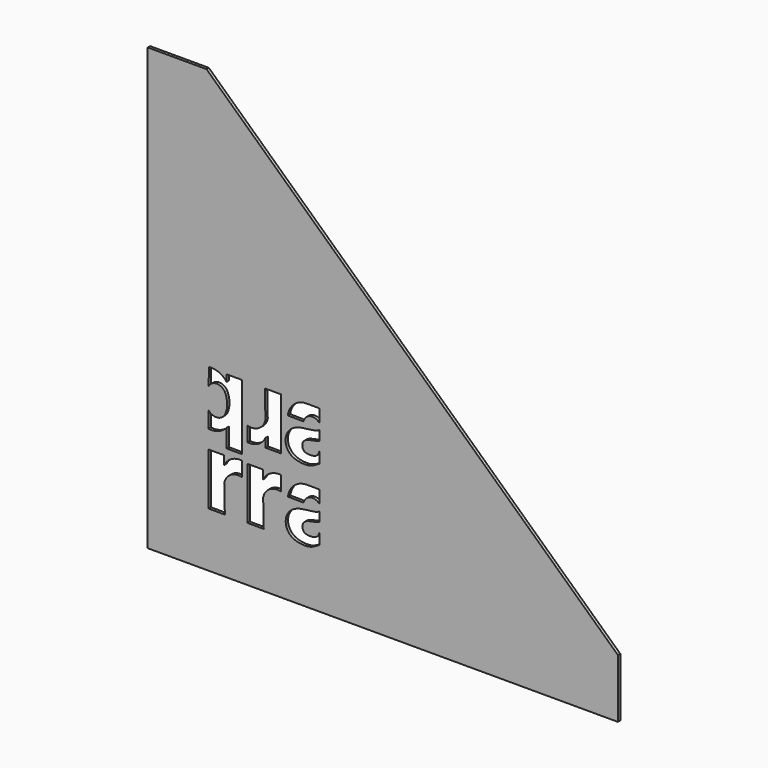
from build123d import *

# Parameters (mm, degrees)
F1_DEPTH = 2


with BuildPart() as f1:
    # F0 (on Front) → F1 (new body)
    with BuildSketch(Plane.XZ):
        Polygon((207.8597095609, 332.3038927495), (207.8597095609, 33.0038927495), (527.8597095609, 33.0038927495), (527.8597095609, 73.0038927495), (247.8597095609, 333.0038927495), (207.8597095609, 333.0038927495), align=None)
        with BuildLine():
            Line((260.350984643, 70.2171021446), (249.2783638935, 70.2171021446))
            Line((249.2783638935, 70.2171021446), (249.2783638935, 105.6249880537))
            Line((249.2783638935, 105.6249880537), (259.907719801, 105.6249880537))
            Line((259.907719801, 105.6249880537), (259.907719801, 99.7129225477))
            ThreePointArc((259.907719801, 99.7129225477), (264.969159541, 104.9981198242), (272.166569839, 106.3205295548))
            Line((272.166569839, 106.3205295548), (272.166569839, 96.3221633181))
            ThreePointArc((272.166569839, 96.3221633181), (264.4266251898, 95.3581367621), (259.9412812379, 88.9770882584))
            Line((259.9412812379, 88.9770882584), (260.350984643, 70.2171021446))
        make_face(mode=Mode.SUBTRACT)
        with BuildLine():
            ThreePointArc((286.3925668235, 99.7295484954), (291.4540065635, 105.0147457719), (298.6514168615, 106.3371555025))
            Line((298.6514168615, 106.3371555025), (298.6514168615, 96.3387892658))
            ThreePointArc((298.6514168615, 96.3387892658), (290.9114722123, 95.3747627098), (286.4261282604, 88.9937142061))
            Line((286.4261282604, 88.9937142061), (286.8358316655, 70.2337280923))
            Line((286.8358316655, 70.2337280923), (275.763210916, 70.2337280923))
            Line((275.763210916, 70.2337280923), (275.763210916, 105.6416140014))
            Line((275.763210916, 105.6416140014), (286.3925668235, 105.6416140014))
            Line((286.3925668235, 105.6416140014), (286.3925668235, 99.7295484954))
        make_face(mode=Mode.SUBTRACT)
        with BuildLine():
            Line((324.8531874271, 80.6576142285), (324.8531874271, 72.9894021723))
            add(Edge.make_bspline(
                [(324.8531874271, 93.2830700848), (323.3065188743, 92.0353198263), (319.5932504041, 91.5074140824), (305.76812214, 90.3356227603), (300.2660508817, 80.3600298922), (304.3588181672, 69.9638702682), (318.5536418728, 68.5542730887), (322.0696986329, 71.5322612124), (324.8531874271, 72.9894021723)],
                knots=[0, 0, 0, 0, 0.1282549597, 0.3235779421, 0.4933166916, 0.6588260023, 0.8480719548, 1, 1, 1, 1], degree=3))
            Line((324.8531874271, 93.2830700848), (324.8531874271, 86.6217890952))
            add(Edge.make_bspline(
                [(324.8531874271, 80.6576142285), (324.3853881763, 79.3716732666), (323.4463072091, 76.6838402752), (318.0274043762, 75.8320101397), (313.0517233961, 76.8842047893), (312.8862075691, 83.1667071186), (318.065998571, 85.3140545113), (321.9671157982, 85.6164060676), (324.8531874271, 86.6217890952)],
                knots=[0, 0, 0, 0, 0.1467139352, 0.3148344078, 0.4723324727, 0.6349882053, 0.7976765175, 1, 1, 1, 1], degree=3))
        make_face(mode=Mode.SUBTRACT)
        with BuildLine():
            Line((316.0905669231, 106.2228459891), (324.8531874271, 106.1858685351))
            Line((324.8531874271, 106.1858685351), (324.8531874271, 97.3470781765))
            ThreePointArc((324.8531874271, 97.3470781765), (318.6136208517, 99.4559091904), (313.9553243844, 94.7997698758))
            Line((313.9553243844, 94.7997698758), (303.3299023836, 94.9093083117))
            ThreePointArc((303.3299023836, 94.9093083117), (307.550022404, 103.002604489), (316.0905669231, 106.2228459891))
        make_face(mode=Mode.SUBTRACT)
        with BuildLine():
            Line((271.8778838503, 154.6828896542), (271.8778838503, 110.1980508108))
            Line((271.8778838503, 110.1980508108), (261.5694468009, 110.1980508108))
            Line((261.5694468009, 110.1980508108), (261.5694468009, 122.6266548772))
            ThreePointArc((261.5694468009, 122.6266548772), (256.0058228238, 118.7745070428), (249.2798035133, 118.0304513116))
            Line((249.2798035133, 118.0304513116), (249.2798035133, 129.026845171))
            ThreePointArc((249.2798035133, 129.026845171), (255.1291713772, 126.67333299), (260.419606148, 130.1034093638))
            ThreePointArc((260.419606148, 130.1034093638), (261.9283811203, 136.8586272736), (260.419606148, 143.6138451834))
            ThreePointArc((260.419606148, 143.6138451834), (254.8736584473, 146.8446188485), (249.3277107465, 143.6138451834))
            Line((249.3277107465, 143.6138451834), (249.5063905704, 155.1215500374))
            ThreePointArc((249.5063905704, 155.1215500374), (256.2156097253, 154.2198410632), (261.5694468009, 150.0770003338))
            Line((261.5694468009, 150.0770003338), (261.5694468009, 154.6828896542))
            Line((261.5694468009, 154.6828896542), (271.8778838503, 154.6828896542))
        make_face(mode=Mode.SUBTRACT)
        with BuildLine():
            Line((298.6336936343, 119.2762107392), (288.0043377268, 119.2762107392))
            Line((288.0043377268, 119.2762107392), (288.0043377268, 125.1882762452))
            ThreePointArc((288.0043377268, 125.1882762452), (282.9428979868, 119.9030789686), (275.7454876888, 118.5806692381))
            Line((275.7454876888, 118.5806692381), (275.7454876888, 128.5790354748))
            ThreePointArc((275.7454876888, 128.5790354748), (283.485432338, 129.5430620307), (287.9707762899, 135.9241105345))
            Line((287.9707762899, 135.9241105345), (287.5610728848, 154.6840966483))
            Line((287.5610728848, 154.6840966483), (298.6336936343, 154.6840966483))
            Line((298.6336936343, 154.6840966483), (298.6336936343, 119.2762107392))
        make_face(mode=Mode.SUBTRACT)
        with BuildLine():
            add(Edge.make_bspline(
                [(324.7558644524, 141.9059485932), (323.2091958996, 140.6581983347), (319.4959274294, 140.1302925908), (305.6707991653, 138.9585012686), (300.168727907, 128.9829084005), (304.2614951926, 118.5867487766), (318.4563188981, 117.1771515971), (321.9723756583, 120.1551397208), (324.7558644524, 121.6122806807)],
                knots=[0, 0, 0, 0, 0.1282549597, 0.3235779421, 0.4933166916, 0.6588260023, 0.8480719548, 1, 1, 1, 1], degree=3))
            Line((324.7558644524, 141.9059485932), (324.7558644524, 135.2446676035))
            add(Edge.make_bspline(
                [(324.7558644524, 129.2804927369), (324.2880652016, 127.9945517749), (323.3489842345, 125.3067187836), (317.9300814016, 124.4548886481), (312.9544004215, 125.5070832977), (312.7888845944, 131.7895856269), (317.9686755963, 133.9369330196), (321.8697928236, 134.239284576), (324.7558644524, 135.2446676035)],
                knots=[0, 0, 0, 0, 0.1467139352, 0.3148344078, 0.4723324727, 0.6349882053, 0.7976765175, 1, 1, 1, 1], degree=3))
            Line((324.7558644524, 129.2804927369), (324.7558644524, 121.6122806807))
        make_face(mode=Mode.SUBTRACT)
        with BuildLine():
            Line((324.7558644524, 154.8087470435), (324.7558644524, 145.9699566849))
            ThreePointArc((324.7558644524, 145.9699566849), (318.516297877, 148.0787876987), (313.8580014098, 143.4226483841))
            Line((313.8580014098, 143.4226483841), (303.2325794089, 143.5321868201))
            ThreePointArc((303.2325794089, 143.5321868201), (307.4526994293, 151.6254829974), (315.9932439484, 154.8457244975))
            Line((315.9932439484, 154.8457244975), (324.7558644524, 154.8087470435))
        make_face(mode=Mode.SUBTRACT)
    extrude(amount=F1_DEPTH)


solid = f1.part
